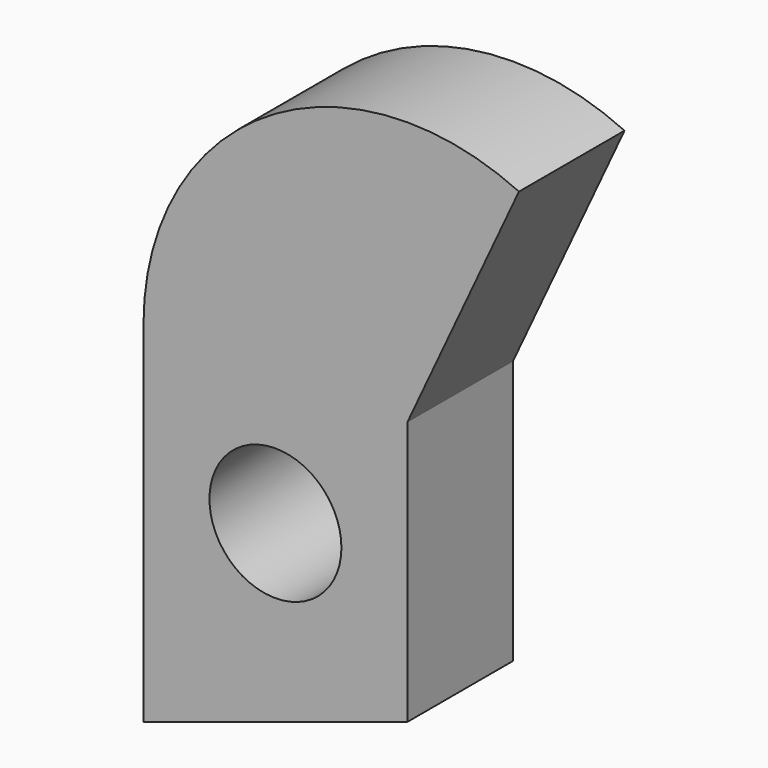
from build123d import *

# Parameters (mm, degrees)
F1_DEPTH   = 25.4
F2_R       = 12.7
F3_DEPTH   = 25.401
F1_FACE1_W = 50.8
F1_FACE1_H = 25.4
F4_ANGLE   = 115


with BuildPart() as f1:
    # F0 (on Front) → F1 (new body)
    with BuildSketch(Plane.XZ):
        Polygon((0, 50.8), (-50.8, 50.8), (-50.8, -16.5059205686), (0, 0), align=None)
    extrude(amount=F1_DEPTH)

    # F2 (on face) → F3 (cut, through all)
    with BuildSketch(Plane.XZ.offset(25.4)):
        with Locations((-25.4, 25.4)):
            Circle(F2_R)
    extrude(amount=-F3_DEPTH, mode=Mode.SUBTRACT)

    # F1_face1 (on face) → F4 (revolve)
    with BuildSketch(Plane(origin=(-25.4, -12.7, 50.8), x_dir=(1, 0, 0), z_dir=(0, 0, 1))):
        Rectangle(F1_FACE1_W, F1_FACE1_H)
    revolve(axis=Axis((0, -12.7, 50.8), (0, 1, 0)), revolution_arc=F4_ANGLE)


solid = f1.part
